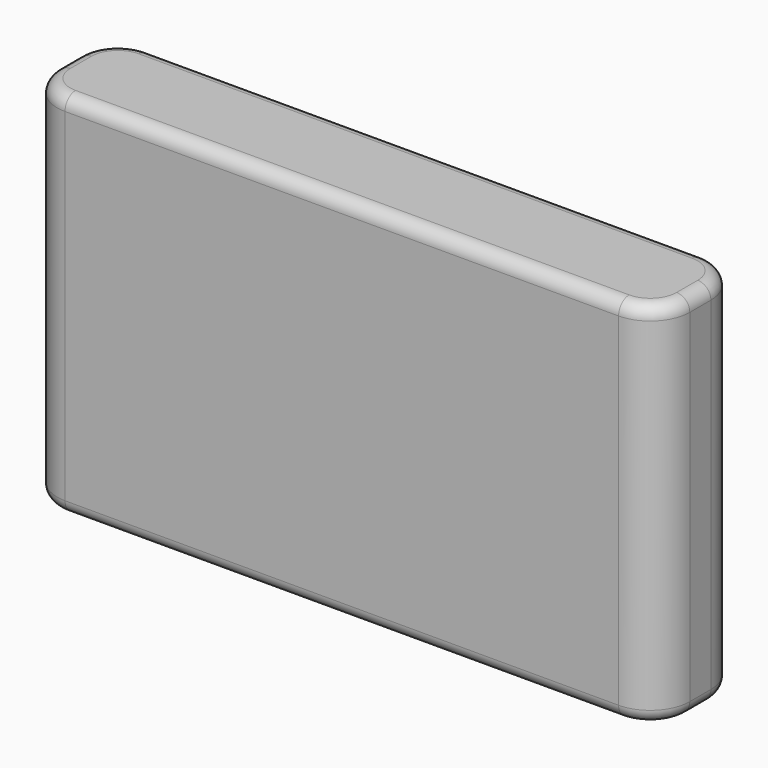
from build123d import *

# Parameters (mm, degrees)
F0_W     = 304.8
F0_H     = 177.8
F1_DEPTH = 25.4
F2_R     = 19.05
F3_R     = 6.35


with BuildPart() as f1:
    # F0 (on Front) → F1 (new body, symmetric)
    with BuildSketch(Plane.XZ):
        with Locations((152.4, 88.9)):
            Rectangle(F0_W, F0_H)
    extrude(amount=F1_DEPTH, both=True)

    # F2
    f2_edges = [f1.edges().sort_by_distance(p)[0] for p in [
        (304.8, -25.4, 88.9),
        (304.8, 25.4, 88.9),
        (0, 25.4, 88.9),
        (0, -25.4, 88.9),
    ]]
    fillet(f2_edges, radius=F2_R)

    # F3
    f3_edges = [f1.edges().sort_by_distance(p)[0] for p in [
        (152.4, -25.4, 177.8),
        (152.4, -25.4, 0),
    ]]
    fillet(f3_edges, radius=F3_R)


solid = f1.part
